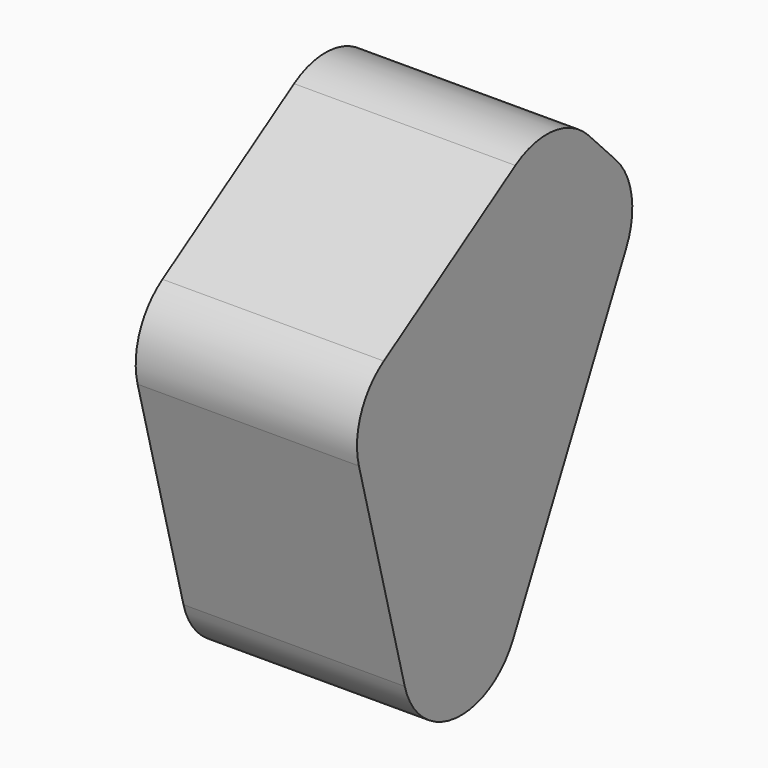
from build123d import *

# Parameters (mm, degrees)
F1_DEPTH = 33.782
F2_R     = 11.092254


with BuildPart() as f1:
    # F0 (on Right) → F1 (new body)
    with BuildSketch(Plane.YZ):
        Polygon((-24.782211, 56.070555), (-64.351164, 30.730167), (-45.979865, -38.941998), (-7.824088, 38.471114), align=None)
    extrude(amount=-F1_DEPTH)

    # F2
    f2_edges = [f1.edges().sort_by_distance(p)[0] for p in [
        (-16.891, -24.782211, 56.070555),
        (-16.891, -7.824088, 38.471114),
        (-16.891, -64.351164, 30.730167),
        (-16.891, -45.979865, -38.941998),
    ]]
    fillet(f2_edges, radius=F2_R)


solid = f1.part
